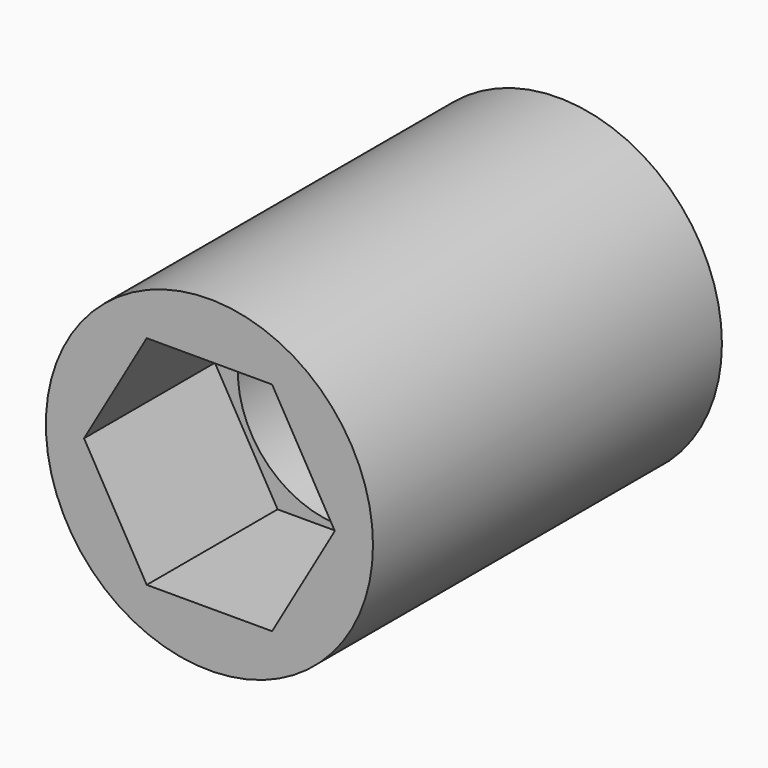
from build123d import *

# Parameters (mm, degrees)
F0_R     = 9.525
F1_DEPTH = 25.4
F3_R     = 5.969
F4_DEPTH = 25.401
F2_W     = 11.938
F2_H     = 11.938
F5_DEPTH = 11.0998
F7_DEPTH = 9.525


with BuildPart() as f1:
    # F0 (on Front) → F1 (new body)
    with BuildSketch(Plane.XZ):
        Circle(F0_R)
    extrude(amount=F1_DEPTH)

    # F3 (on Front) → F4 (cut, through all)
    with BuildSketch(Plane.XZ):
        Circle(F3_R)
    extrude(amount=F4_DEPTH, mode=Mode.SUBTRACT)

    # F2 (on Front) → F5 (cut)
    with BuildSketch(Plane.XZ):
        Rectangle(F2_W, F2_H)
    extrude(amount=F5_DEPTH, mode=Mode.SUBTRACT)

    # F6 (on face) → F7 (cut)
    with BuildSketch(Plane.XZ.offset(25.4)):
        Polygon((3.65125, 6.324151), (-3.65125, 6.324151), (-7.3025, 0), (-3.65125, -6.324151), (3.65125, -6.324151), (7.3025, 0), align=None)
    extrude(amount=-F7_DEPTH, mode=Mode.SUBTRACT)


solid = f1.part
